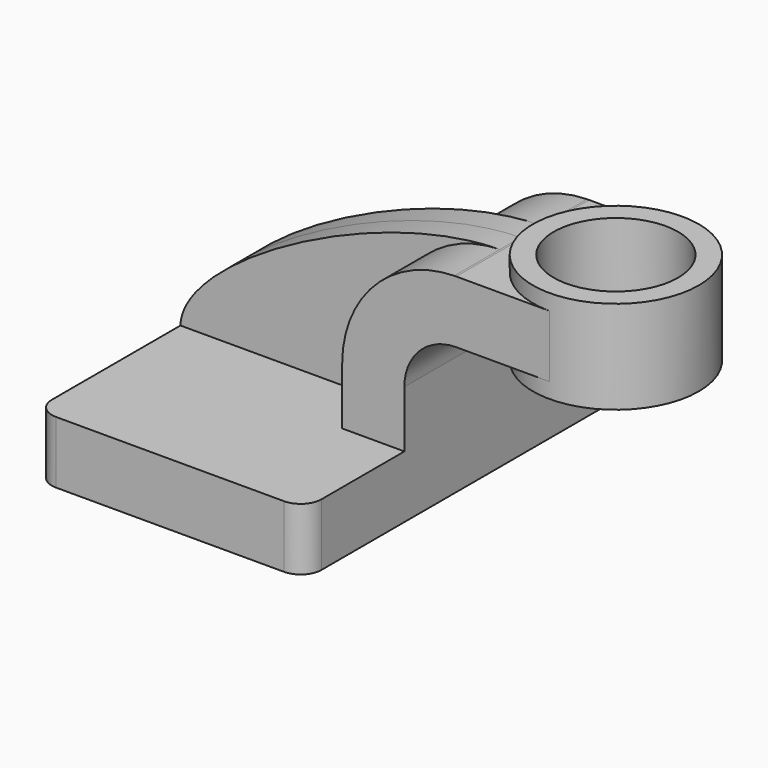
from build123d import *

# Parameters (mm, degrees)
F1_DEPTH = 63.5
F0_W     = 25.4
F0_H     = 19.05
F2_DEPTH = 25.4
F3_DEPTH = 7.9375
F5_R     = 6.35
F6_R     = 19.05
F7_DEPTH = 76.201


with BuildPart() as f1:
    # F0 (on Front) → F1 (new body, symmetric)
    with BuildSketch(Plane.XZ):
        Polygon((22.225, 9.525), (-41.275, 9.525), (-41.275, -9.525), (41.275, -9.525), (41.275, 9.525), align=None)
    extrude(amount=F1_DEPTH, both=True)

    # F0 (on Front) → F2 (join, symmetric)
    with BuildSketch(Plane.XZ):
        with Locations((73.025, 52.324)):
            Rectangle(F0_W, F0_H)
        with BuildLine():
            Line((22.225, 26.924), (22.225, 9.525))
            Line((22.225, 9.525), (41.275, 9.525))
            Line((41.275, 9.525), (41.275, 26.924))
            ThreePointArc((41.275, 26.924), (45.9246798487, 38.1493201513), (57.15, 42.799))
            Line((57.15, 42.799), (60.325, 42.799))
            Line((60.325, 42.799), (60.325, 61.849))
            Line((60.325, 61.849), (57.15, 61.849))
            add(Edge.make_bspline(
                [(56.5700312236, 61.8441841521), (56.7638831391, 61.8466038705), (56.957209462, 61.8482110704), (57.15, 61.849)],
                knots=[110.90829632, 110.90829632, 110.90829632, 110.90829632, 111.468747194, 111.468747194, 111.468747194, 111.468747194], degree=3))
            ThreePointArc((56.5700312236, 61.8441841521), (32.2500900151, 51.4137959923), (22.225, 26.924))
        make_face()
    extrude(amount=F2_DEPTH, both=True)

    # F0 (on Front) → F3 (join, symmetric)
    with BuildSketch(Plane.XZ):
        with BuildLine():
            add(Edge.make_bspline(
                [(-41.275, 9.525), (-40.7358347138, 29.0675254726), (18.2084429422, 61.3653431795), (56.5700312236, 61.8441841521)],
                knots=[0, 0, 0, 0, 110.90829632, 110.90829632, 110.90829632, 110.90829632], degree=3))
            Line((-41.275, 9.525), (22.225, 9.525))
            Line((22.225, 9.525), (22.225, 26.924))
            ThreePointArc((22.225, 26.924), (32.2500900151, 51.4137959923), (56.5700312236, 61.8441841521))
        make_face()
    extrude(amount=F3_DEPTH, both=True)

    # F0 (on Front) → F4 (revolve)
    with BuildSketch(Plane.XZ):
        Polygon((85.725, 66.675), (85.725, 61.849), (85.725, 42.799), (85.725, 38.1), (111.125, 38.1), (111.125, 66.675), align=None)
    revolve(axis=Axis((85.725, 0, 52.3875), (0, 0, 1)))

    # F5
    f5_edges = [f1.edges().sort_by_distance(p)[0] for p in [
        (41.275, -63.5, 0),
        (-41.275, -63.5, 0),
        (41.275, 63.5, 0),
        (-41.275, 63.5, 0),
    ]]
    fillet(f5_edges, radius=F5_R)

    # F6 (on face) → F7 (cut, through all)
    with BuildSketch(Plane.XY.offset(66.675)):
        with Locations((85.725, 0)):
            Circle(F6_R)
    extrude(amount=-F7_DEPTH, mode=Mode.SUBTRACT)


solid = f1.part
